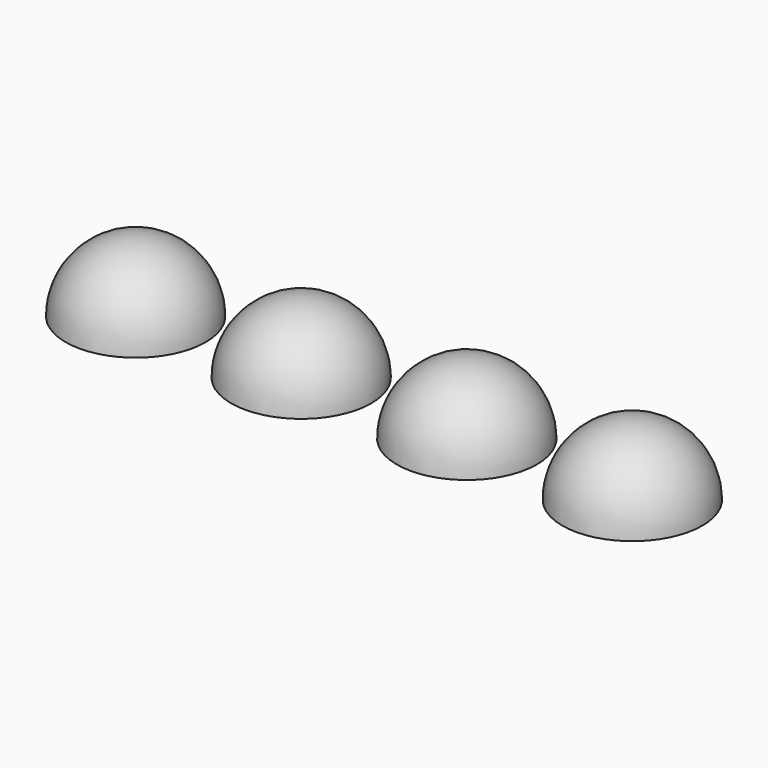
from build123d import *

# Parameters (mm, degrees)
F1_ANGLE = 180


with BuildPart() as f1:
    # F0 (on Top) → F1 (revolve)
    with BuildSketch(Plane.XY):
        with BuildLine():
            ThreePointArc((2.75, 0), (0, 2.75), (-2.75, 0))
            Line((-2.75, 0), (2.75, 0))
        make_face()
        with BuildLine():
            ThreePointArc((9.25, 0), (6.5, 2.75), (3.75, 0))
            Line((3.75, 0), (9.25, 0))
        make_face()
        with BuildLine():
            ThreePointArc((15.75, 0), (13, 2.75), (10.25, 0))
            Line((10.25, 0), (15.75, 0))
        make_face()
        with BuildLine():
            ThreePointArc((22.25, 0), (19.5, 2.75), (16.75, 0))
            Line((16.75, 0), (22.25, 0))
        make_face()
    revolve(axis=Axis((0, 0, 0), (1, 0, 0)), revolution_arc=F1_ANGLE)


solid = f1.part
